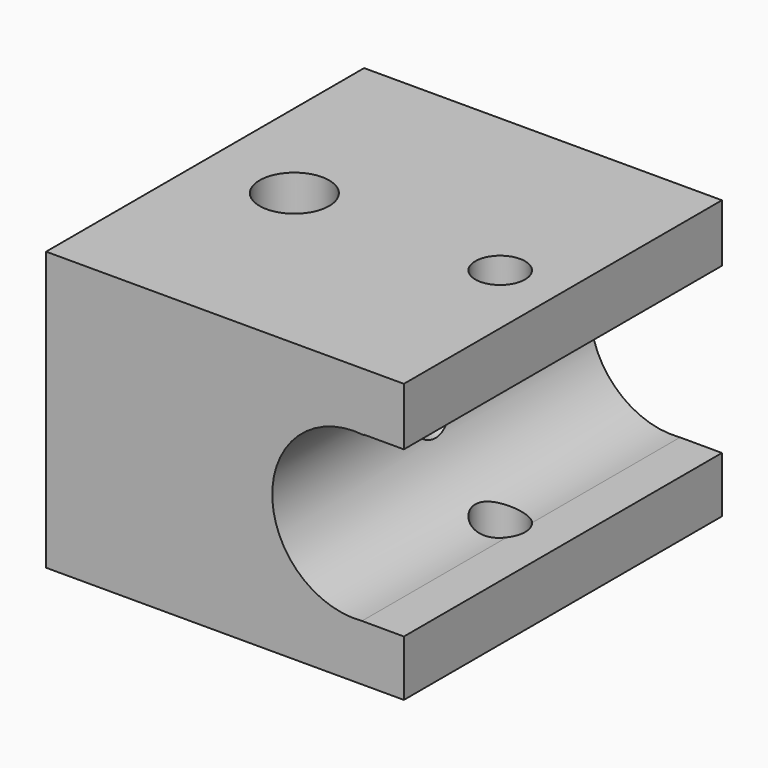
from build123d import *

# Parameters (mm, degrees)
F0_W     = 18
F0_H     = 14
F1_DEPTH = 20
F3_DEPTH = 20
F4_R     = 1.25
F4_R_2   = 1.75
F5_DEPTH = 25
F6_R     = 1.25
F7_DEPTH = 25


with BuildPart() as f1:
    # F0 (on Front) → F1 (new body)
    with BuildSketch(Plane.XZ):
        with Locations((4.047778, 20.754311)):
            Rectangle(F0_W, F0_H)
    extrude(amount=F1_DEPTH)

    # F2 (on face) → F3 (cut)
    with BuildSketch(Plane.XZ.offset(20)):
        with BuildLine():
            Line((13.047778, 17.367337), (13.047778, 24.034069))
            ThreePointArc((13.047778, 24.034069), (12.099173, 24.560953), (11.046412, 24.823921))
            ThreePointArc((11.046412, 24.823921), (6.426039, 20.753776), (10.940806, 16.566795))
            ThreePointArc((10.940806, 16.566795), (12.049681, 16.821286), (13.047778, 17.367337))
        make_face()
        with BuildLine():
            Line((13.047778, 16.563023), (13.047778, 17.367337))
            ThreePointArc((13.047778, 17.367337), (12.049681, 16.821286), (10.940806, 16.566795))
            Line((10.940806, 16.566795), (13.047778, 16.563023))
        make_face()
        with BuildLine():
            ThreePointArc((11.046412, 24.823921), (12.099173, 24.560953), (13.047778, 24.034069))
            Line((13.047778, 24.034069), (13.047778, 24.851898))
            Line((13.047778, 24.851898), (11.046412, 24.851898))
            Line((11.046412, 24.851898), (11.046412, 24.823921))
        make_face()
    extrude(amount=-F3_DEPTH, mode=Mode.SUBTRACT)

    # F4 (on face) → F5 (cut)
    with BuildSketch(Plane.XY.offset(27.754311)):
        with Locations((9.971282, -10.096995)):
            Circle(F4_R)
        with Locations((-0.444201, -10.021016)):
            Circle(F4_R_2)
    extrude(amount=-F5_DEPTH, mode=Mode.SUBTRACT)

    # F6 (on face) → F7 (cut)
    with BuildSketch(Plane(origin=(-4.952222, 0, 0), x_dir=(0, -1, 0), z_dir=(-1, 0, 0))):
        with Locations((10.059365, 20.492349)):
            Circle(F6_R)
    extrude(amount=-F7_DEPTH, mode=Mode.SUBTRACT)


solid = f1.part
